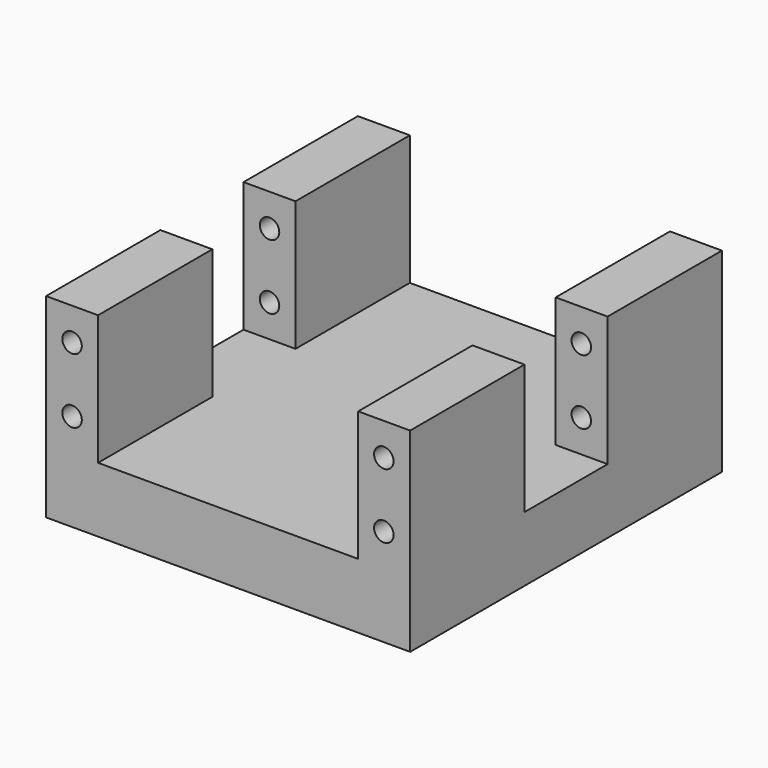
from build123d import *

# Parameters (mm, degrees)
CYLINDER003_R     = 1.5
CYLINDER003_DEPTH = 60
CYLINDER002_R     = 1.5
CYLINDER002_DEPTH = 60
CYLINDER001_R     = 1.5
CYLINDER001_DEPTH = 60
CYLINDER_R        = 1.5
CYLINDER_DEPTH    = 60
SKETCH_W          = 56.05
SKETCH_H          = 60
PAD_DEPTH         = 10
SKETCH003_W       = 8
SKETCH003_H       = 22
PAD002_DEPTH      = 30
SKETCH004_W       = 8
SKETCH004_H       = 22
PAD003_DEPTH      = 30
SKETCH005_W       = 8
SKETCH005_H       = 22
PAD004_DEPTH      = 30
SKETCH006_W       = 8
SKETCH006_H       = 22
PAD005_DEPTH      = 30


with BuildPart() as cylinder003:
    # Cylinder003 → Cylinder003 (new body)
    with BuildSketch(Plane(origin=(52, 0, 15), x_dir=(1, 0, 0), z_dir=(0, -1, 0))):
        Circle(CYLINDER003_R)
    extrude(amount=CYLINDER003_DEPTH)


with BuildPart() as cylinder002:
    # Cylinder002 → Cylinder002 (new body)
    with BuildSketch(Plane(origin=(52, 0, 25), x_dir=(1, 0, 0), z_dir=(0, -1, 0))):
        Circle(CYLINDER002_R)
    extrude(amount=CYLINDER002_DEPTH)


with BuildPart() as cylinder001:
    # Cylinder001 → Cylinder001 (new body)
    with BuildSketch(Plane(origin=(4, 0, 15), x_dir=(1, 0, 0), z_dir=(0, -1, 0))):
        Circle(CYLINDER001_R)
    extrude(amount=CYLINDER001_DEPTH)


with BuildPart() as cylinder:
    # Cylinder → Cylinder (new body)
    with BuildSketch(Plane(origin=(4, 0, 25), x_dir=(1, 0, 0), z_dir=(0, -1, 0))):
        Circle(CYLINDER_R)
    extrude(amount=CYLINDER_DEPTH)


with BuildPart() as cut003:
    # Sketch → Pad (new body)
    with BuildSketch(Plane.XY):
        with Locations((28.025, -30)):
            Rectangle(SKETCH_W, SKETCH_H)
    extrude(amount=PAD_DEPTH)

    # Sketch003 → Pad002 (join)
    with BuildSketch(Plane.XY):
        with Locations((4, -11)):
            Rectangle(SKETCH003_W, SKETCH003_H)
    extrude(amount=PAD002_DEPTH)

    # Sketch004 → Pad003 (join)
    with BuildSketch(Plane.XY):
        with Locations((52.05, -11)):
            Rectangle(SKETCH004_W, SKETCH004_H)
    extrude(amount=PAD003_DEPTH)

    # Sketch005 → Pad004 (join)
    with BuildSketch(Plane.XY):
        with Locations((4, -49)):
            Rectangle(SKETCH005_W, SKETCH005_H)
    extrude(amount=PAD004_DEPTH)

    # Sketch006 → Pad005 (join)
    with BuildSketch(Plane.XY):
        with Locations((52.05, -49)):
            Rectangle(SKETCH006_W, SKETCH006_H)
    extrude(amount=PAD005_DEPTH)

    # Cut: cut Cylinder
    add(cylinder.part, mode=Mode.SUBTRACT)

    # Cut001: cut Cylinder001
    add(cylinder001.part, mode=Mode.SUBTRACT)

    # Cut002: cut Cylinder002
    add(cylinder002.part, mode=Mode.SUBTRACT)

    # Cut003: cut Cylinder003
    add(cylinder003.part, mode=Mode.SUBTRACT)


solid = cut003.part
